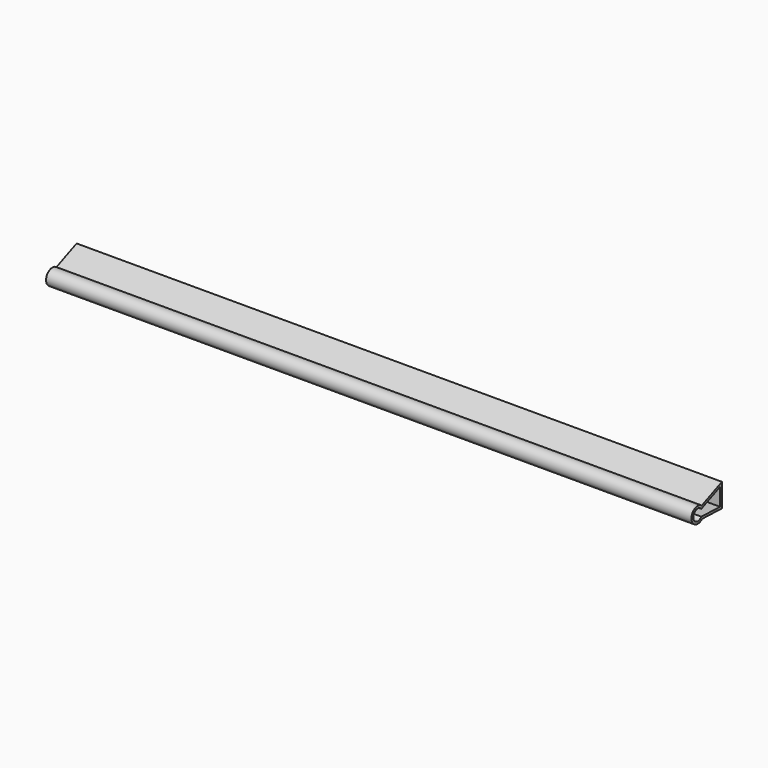
from build123d import *

# Parameters (mm, degrees)
F1_DEPTH = 2133.6
F3_DEPTH = 2133.6


with BuildPart() as f1:
    # F0 (on Right) → F1 (new body)
    with BuildSketch(Plane.YZ):
        with BuildLine():
            ThreePointArc((18.062164, -19.06031), (24.122937, -10.374056), (26.25904, 0))
            ThreePointArc((26.25904, 0), (23.679622, 11.349566), (16.448122, 20.469403))
            ThreePointArc((16.448122, 20.469403), (-26.237178, -1.071293), (18.062164, -19.06031))
        make_face()
        with BuildLine():
            ThreePointArc((16.448122, 20.469403), (23.679622, 11.349566), (26.25904, 0))
            ThreePointArc((26.25904, 0), (24.122937, -10.374056), (18.062164, -19.06031))
            Line((18.062164, -19.06031), (99.819541, -21.895185))
            Line((99.819541, -21.895185), (99.819541, 55.595309))
            Line((99.819541, 55.595309), (16.448122, 20.469403))
        make_face()
    extrude(amount=F1_DEPTH)

    # F2 (on face) → F3 (cut)
    with BuildSketch(Plane(origin=(0, 0, 0), x_dir=(0, -1, 0), z_dir=(-1, 0, 0))):
        with BuildLine():
            ThreePointArc((-14.805664, -11.322814), (18.63883, -0.088608), (-14.697341, 11.46307))
            Line((-14.697341, 11.46307), (-92.199542, 44.116166))
            Line((-92.199542, 44.116166), (-92.199542, -14.006389))
            Line((-92.199542, -14.006389), (-14.805664, -11.322814))
        make_face()
    extrude(amount=-F3_DEPTH, mode=Mode.SUBTRACT)


solid = f1.part
